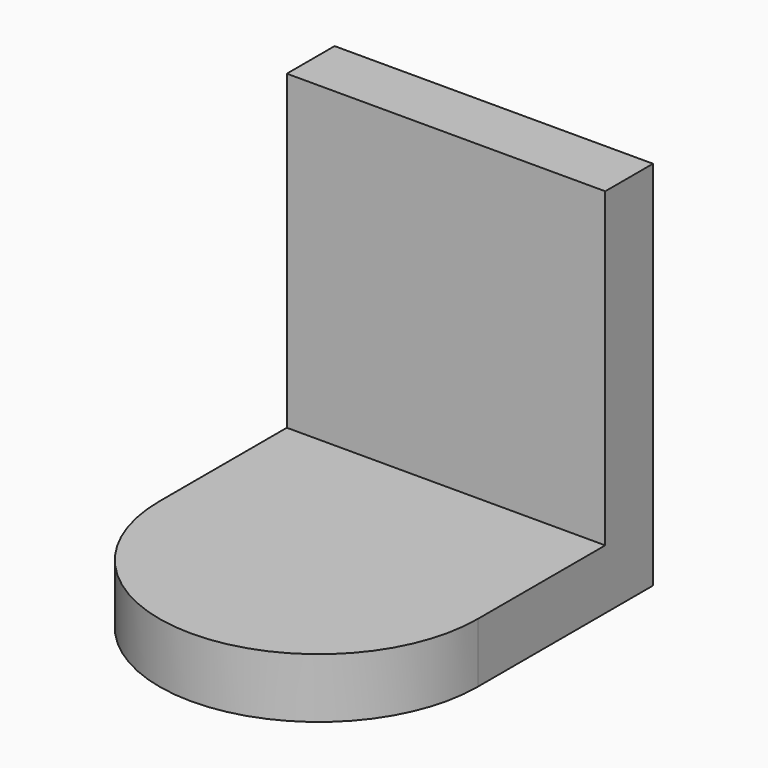
from build123d import *

# Parameters (mm, degrees)
F1_DEPTH = 9.525
F0_W     = 50.8
F0_H     = 9.525
F2_DEPTH = 59.2582
F3_R     = 6.096
F4_DEPTH = 8.4582


with BuildPart() as f1:
    # F0 (on Top) → F1 (new body)
    with BuildSketch(Plane.XY):
        with BuildLine():
            Line((25.4, 25.4), (-25.4, 25.4))
            Line((-25.4, 25.4), (-25.4, 0))
            ThreePointArc((-25.4, 0), (0, -25.4), (25.4, 0))
            Line((25.4, 0), (25.4, 25.4))
        make_face()
    extrude(amount=F1_DEPTH)

    # F0 (on Top) → F2 (join)
    with BuildSketch(Plane.XY):
        with Locations((0, 30.1625)):
            Rectangle(F0_W, F0_H)
    extrude(amount=F2_DEPTH)

    # F3 (on face) → F4 (join)
    with BuildSketch(Plane.XY):
        Circle(F3_R)
    extrude(amount=-F4_DEPTH)


solid = f1.part
